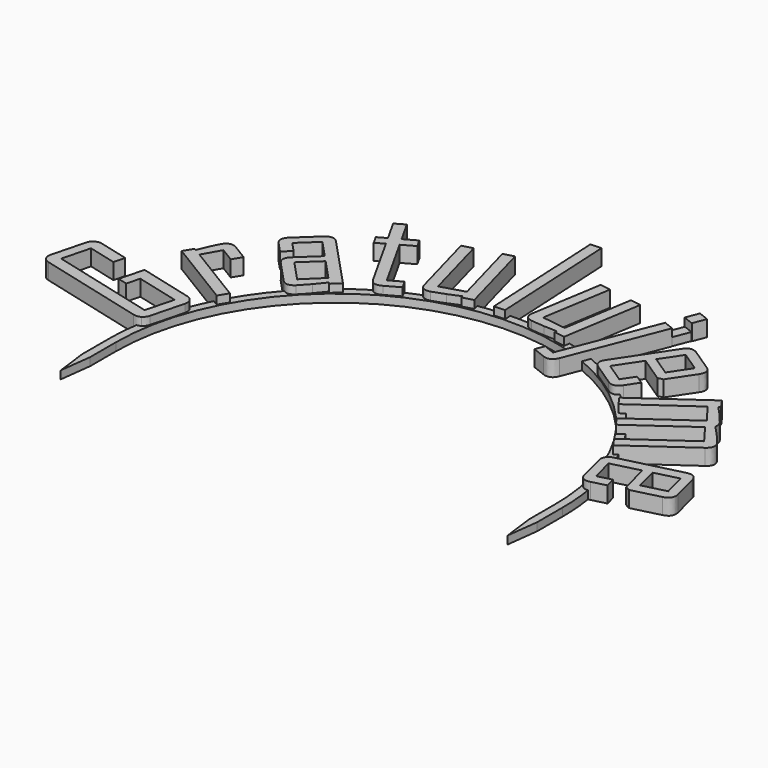
from build123d import *

# Parameters (mm, degrees)
PAD_DEPTH    = 1
PAD001_DEPTH = 2


with BuildPart() as part:
    # Sketch001 (on DatumPlane) → Pad (new body)
    with BuildSketch(Plane.XY):
        with BuildLine():
            ThreePointArc((27.5, 0), (0, 27.5), (-27.5, 0))
            Line((-27.5, 0), (-27.5, -4))
            Line((-27.5, -4), (-28, -8))
            Line((-28.5, -4), (-28, -8))
            Line((-28.5, 0), (-28.5, -4))
            ThreePointArc((-25.981618, 11.713477), (-27.863292, 5.990572), (-28.5, 0))
            ThreePointArc((-25.473579, 12.780719), (-25.733132, 12.249732), (-25.981618, 11.713477))
            ThreePointArc((-18.916244, 21.317264), (-22.601598, 17.361387), (-25.473579, 12.780719))
            ThreePointArc((-17.94, 22.145121), (-18.43277, 21.736674), (-18.916244, 21.317264))
            ThreePointArc((-8.600872, 27.171216), (-13.50629, 25.096416), (-17.94, 22.145121))
            ThreePointArc((-7.372184, 27.53), (-7.988543, 27.357507), (-8.600872, 27.171216))
            ThreePointArc((9.780287, 26.769311), (1.262696, 28.472014), (-7.372184, 27.53))
            Line((9.780287, 26.769311), (14.521831, 38.89524))
            Line((14.521831, 38.89524), (15.713934, 38.429097))
            Line((10.97239, 26.303168), (15.713934, 38.429097))
            ThreePointArc((28.5, 0), (23.716694, 15.804064), (10.97239, 26.303168))
            Line((28.5, 0), (28.5, -4))
            Line((28.5, -4), (28, -8))
            Line((27.5, -4), (28, -8))
            Line((27.5, 0), (27.5, -4))
        make_face()
    extrude(amount=PAD_DEPTH)

    # Sketch002 → Pad001 (join)
    with BuildSketch(Plane(origin=(-105.3, 177.4, 0), x_dir=(1, 0, 0), z_dir=(0, 0, 1))):
        with BuildLine():
            add(Edge.make_bspline(
                [(78.345166, -166.893757), (78.835423, -167.02073), (79.06526, -167.411213)],
                knots=[0, 0, 0, 1, 1, 1], degree=2))
            add(Edge.make_bspline(
                [(79.06526, -167.411213), (79.295097, -167.801697), (79.168138, -168.291959)],
                knots=[0, 0, 0, 1, 1, 1], degree=2))
            add(Edge.make_bspline(
                [(79.168138, -168.291959), (78.103189, -172.4041)],
                knots=[0, 0, 4.247802, 4.247802], degree=1))
            add(Edge.make_bspline(
                [(78.103189, -172.4041), (77.976225, -172.894363), (77.585737, -173.124193)],
                knots=[0, 0, 0, 1, 1, 1], degree=2))
            add(Edge.make_bspline(
                [(77.585737, -173.124193), (77.195251, -173.354034), (76.704999, -173.227101)],
                knots=[0, 0, 0, 1, 1, 1], degree=2))
            add(Edge.make_bspline(
                [(76.704999, -173.227101), (63.267977, -169.747232)],
                knots=[0, 0, 13.880311, 13.880311], degree=1))
            add(Edge.make_bspline(
                [(63.267977, -169.747232), (62.777721, -169.620269), (62.547883, -169.229775)],
                knots=[0, 0, 0, 1, 1, 1], degree=2))
            add(Edge.make_bspline(
                [(62.547883, -169.229775), (62.318045, -168.839291), (62.445006, -168.34904)],
                knots=[0, 0, 0, 1, 1, 1], degree=2))
            add(Edge.make_bspline(
                [(62.445006, -168.34904), (63.509955, -164.236888)],
                knots=[0, 0, 4.247812, 4.247812], degree=1))
            add(Edge.make_bspline(
                [(63.509955, -164.236888), (63.63692, -163.746636), (64.027406, -163.516795)],
                knots=[0, 0, 0, 1, 1, 1], degree=2))
            add(Edge.make_bspline(
                [(64.027406, -163.516795), (64.417892, -163.286955), (64.908144, -163.413888)],
                knots=[0, 0, 0, 1, 1, 1], degree=2))
            add(Edge.make_bspline(
                [(64.908144, -163.413888), (68.550048, -164.357058)],
                knots=[0, 0, 3.762052, 3.762052], degree=1))
            add(Edge.make_bspline(
                [(68.550048, -164.357058), (68.187292, -165.757793)],
                knots=[0, 0, 1.446946, 1.446946], degree=1))
            add(Edge.make_bspline(
                [(68.187292, -165.757793), (64.665451, -164.845721)],
                knots=[0, 0, 3.638027, 3.638027], degree=1))
            add(Edge.make_bspline(
                [(64.665451, -164.845721), (63.748196, -168.387567)],
                knots=[0, 0, 3.658692, 3.658692], degree=1))
            add(Edge.make_bspline(
                [(63.748196, -168.387567), (76.945092, -171.80525)],
                knots=[0, 0, 13.632264, 13.632264], degree=1))
            add(Edge.make_bspline(
                [(76.945092, -171.80525), (77.862348, -168.263404)],
                knots=[0, 0, 3.658692, 3.658692], degree=1))
            add(Edge.make_bspline(
                [(77.862348, -168.263404), (72.449519, -166.861606)],
                knots=[0, 0, 5.591401, 5.591401], degree=1))
            add(Edge.make_bspline(
                [(72.449519, -166.861606), (72.016802, -168.532477)],
                knots=[0, 0, 1.725993, 1.725993], degree=1))
            add(Edge.make_bspline(
                [(72.016802, -168.532477), (70.816175, -168.22154)],
                knots=[0, 0, 1.240237, 1.240237], degree=1))
            add(Edge.make_bspline(
                [(70.816175, -168.22154), (71.611648, -165.149944)],
                knots=[0, 0, 3.17293, 3.17293], degree=1))
            add(Edge.make_bspline(
                [(71.611648, -165.149944), (78.345166, -166.893757)],
                knots=[0, 0, 6.955656, 6.955656], degree=1))
        make_face()
        with BuildLine():
            add(Edge.make_bspline(
                [(77.502716, -156.989533), (76.797599, -158.145348)],
                knots=[0, 0, 1.35392, 1.35392], degree=1))
            add(Edge.make_bspline(
                [(76.797599, -158.145348), (75.024164, -157.063457)],
                knots=[0, 0, 2.077393, 2.077393], degree=1))
            add(Edge.make_bspline(
                [(75.024164, -157.063457), (73.776017, -159.268163)],
                knots=[0, 0, 2.533495, 2.533495], degree=1))
            add(Edge.make_bspline(
                [(73.776017, -159.268163), (81.240327, -163.821815)],
                knots=[0, 0, 8.743665, 8.743665], degree=1))
            add(Edge.make_bspline(
                [(81.240327, -163.821815), (80.524446, -164.995286)],
                knots=[0, 0, 1.374598, 1.374598], degree=1))
            add(Edge.make_bspline(
                [(80.524446, -164.995286), (71.939606, -159.758042)],
                knots=[0, 0, 10.056251, 10.056251], degree=1))
            add(Edge.make_bspline(
                [(71.939606, -159.758042), (72.65549, -158.584581)],
                knots=[0, 0, 1.374591, 1.374591], degree=1))
            add(Edge.make_bspline(
                [(72.65549, -158.584581), (72.893711, -158.729906)],
                knots=[0, 0, 0.27905, 0.27905], degree=1))
            add(Edge.make_bspline(
                [(72.893711, -158.729906), (73.160731, -158.093759), (73.424309, -157.443406)],
                knots=[0, 0, 0, 1, 1, 1], degree=2))
            add(Edge.make_bspline(
                [(73.424309, -157.443406), (73.749039, -156.672973), (74.034315, -156.205345)],
                knots=[0, 0, 0, 1, 1, 1], degree=2))
            add(Edge.make_bspline(
                [(74.034315, -156.205345), (74.626398, -155.234816), (75.588111, -155.821511)],
                knots=[0, 0, 0, 1, 1, 1], degree=2))
            add(Edge.make_bspline(
                [(75.588111, -155.821511), (77.502716, -156.989533)],
                knots=[0, 0, 2.242763, 2.242763], degree=1))
        make_face()
        with BuildLine():
            add(Edge.make_bspline(
                [(88.544844, -155.250217), (87.555737, -156.174762)],
                knots=[0, 0, 1.353926, 1.353926], degree=1))
            add(Edge.make_bspline(
                [(87.555737, -156.174762), (87.365183, -155.970902)],
                knots=[0, 0, 0.279051, 0.279051], degree=1))
            add(Edge.make_bspline(
                [(87.365183, -155.970902), (86.846331, -156.611506), (86.320422, -157.244554)],
                knots=[0, 0, 0, 1, 1, 1], degree=2))
            add(Edge.make_bspline(
                [(86.320422, -157.244554), (85.665169, -158.0268), (85.219693, -158.443198)],
                knots=[0, 0, 0, 1, 1, 1], degree=2))
            add(Edge.make_bspline(
                [(85.219693, -158.443198), (84.396695, -159.212473), (83.634477, -158.397025)],
                knots=[0, 0, 0, 1, 1, 1], degree=2))
            add(Edge.make_bspline(
                [(83.634477, -158.397025), (81.12904, -155.716618)],
                knots=[0, 0, 3.669032, 3.669032], degree=1))
            add(Edge.make_bspline(
                [(81.12904, -155.716618), (80.338593, -154.870977), (81.191791, -154.073464)],
                knots=[0, 0, 0, 1, 1, 1], degree=2))
            add(Edge.make_bspline(
                [(81.191791, -154.073464), (83.55508, -151.864442)],
                knots=[0, 0, 3.234951, 3.234951], degree=1))
            add(Edge.make_bspline(
                [(83.55508, -151.864442), (81.487212, -149.652172)],
                knots=[0, 0, 3.028236, 3.028236], degree=1))
            add(Edge.make_bspline(
                [(81.487212, -149.652172), (79.327785, -151.67063)],
                knots=[0, 0, 2.955893, 2.955893], degree=1))
            add(Edge.make_bspline(
                [(79.327785, -151.67063), (80.499343, -152.924011)],
                knots=[0, 0, 1.715666, 1.715666], degree=1))
            add(Edge.make_bspline(
                [(80.499343, -152.924011), (79.525336, -153.834437)],
                knots=[0, 0, 1.333253, 1.333253], degree=1))
            add(Edge.make_bspline(
                [(79.525336, -153.834437), (78.367894, -152.596158)],
                knots=[0, 0, 1.694995, 1.694995], degree=1))
            add(Edge.make_bspline(
                [(78.367894, -152.596158), (77.570388, -151.742961), (78.416038, -150.952512)],
                knots=[0, 0, 0, 1, 1, 1], degree=2))
            add(Edge.make_bspline(
                [(78.416038, -150.952512), (80.832179, -148.694089)],
                knots=[0, 0, 3.307297, 3.307297], degree=1))
            add(Edge.make_bspline(
                [(80.832179, -148.694089), (81.677829, -147.90364), (82.475334, -148.756838)],
                knots=[0, 0, 0, 1, 1, 1], degree=2))
            add(Edge.make_bspline(
                [(82.475334, -148.756838), (88.544844, -155.250217)],
                knots=[0, 0, 8.888359, 8.888359], degree=1))
        make_face()
        with BuildLine():
            add(Edge.make_bspline(
                [(86.716872, -155.247048), (84.289068, -152.649696)],
                knots=[0, 0, 3.555344, 3.555344], degree=1))
            add(Edge.make_bspline(
                [(84.289068, -152.649696), (82.046587, -154.745795)],
                knots=[0, 0, 3.069585, 3.069585], degree=1))
            add(Edge.make_bspline(
                [(82.046587, -154.745795), (84.516735, -157.388442)],
                knots=[0, 0, 3.61735, 3.61735], degree=1))
            add(Edge.make_bspline(
                [(84.516735, -157.388442), (86.716872, -155.247048)],
                knots=[0, 0, 3.070207, 3.070207], degree=1))
        make_face(mode=Mode.SUBTRACT)
        with BuildLine():
            add(Edge.make_bspline(
                [(93.622862, -152.266731), (91.918801, -153.221635)],
                knots=[0, 0, 1.953374, 1.953374], degree=1))
            add(Edge.make_bspline(
                [(91.918801, -153.221635), (90.908985, -153.7875), (90.338065, -152.768669)],
                knots=[0, 0, 0, 1, 1, 1], degree=2))
            add(Edge.make_bspline(
                [(90.338065, -152.768669), (86.584141, -146.069641)],
                knots=[0, 0, 7.679123, 7.679123], degree=1))
            add(Edge.make_bspline(
                [(86.584141, -146.069641), (85.529244, -146.660767)],
                knots=[0, 0, 1.209229, 1.209229], degree=1))
            add(Edge.make_bspline(
                [(85.529244, -146.660767), (84.938115, -145.605875)],
                knots=[0, 0, 1.209227, 1.209227], degree=1))
            add(Edge.make_bspline(
                [(84.938115, -145.605875), (85.99301, -145.01474)],
                knots=[0, 0, 1.209233, 1.209233], degree=1))
            add(Edge.make_bspline(
                [(85.99301, -145.01474), (84.462136, -142.282834)],
                knots=[0, 0, 3.131595, 3.131595], degree=1))
            add(Edge.make_bspline(
                [(84.462136, -142.282834), (85.643258, -141.62097)],
                knots=[0, 0, 1.353924, 1.353924], degree=1))
            add(Edge.make_bspline(
                [(85.643258, -141.62097), (87.174132, -144.352876)],
                knots=[0, 0, 3.131595, 3.131595], degree=1))
            add(Edge.make_bspline(
                [(87.174132, -144.352876), (88.706886, -143.493971)],
                knots=[0, 0, 1.757002, 1.757002], degree=1))
            add(Edge.make_bspline(
                [(88.706886, -143.493971), (89.298015, -144.548863)],
                knots=[0, 0, 1.209227, 1.209227], degree=1))
            add(Edge.make_bspline(
                [(89.298015, -144.548863), (87.765263, -145.407778)],
                knots=[0, 0, 1.757005, 1.757005], degree=1))
            add(Edge.make_bspline(
                [(87.765263, -145.407778), (91.498979, -152.070745)],
                knots=[0, 0, 7.637785, 7.637785], degree=1))
            add(Edge.make_bspline(
                [(91.498979, -152.070745), (93.031732, -151.211839)],
                knots=[0, 0, 1.757001, 1.757001], degree=1))
            add(Edge.make_bspline(
                [(93.031732, -151.211839), (93.622862, -152.266731)],
                knots=[0, 0, 1.209227, 1.209227], degree=1))
        make_face()
        with BuildLine():
            add(Edge.make_bspline(
                [(100.781992, -149.981279), (99.475992, -150.338337)],
                knots=[0, 0, 1.35393, 1.35393], degree=1))
            add(Edge.make_bspline(
                [(99.475992, -150.338337), (99.402361, -150.069176)],
                knots=[0, 0, 0.279051, 0.279051], degree=1))
            add(Edge.make_bspline(
                [(99.402361, -150.069176), (98.634792, -150.396887), (97.874464, -150.711904)],
                knots=[0, 0, 0, 1, 1, 1], degree=2))
            add(Edge.make_bspline(
                [(97.874464, -150.711904), (96.950106, -151.093205), (96.322033, -151.264924)],
                knots=[0, 0, 0, 1, 1, 1], degree=2))
            add(Edge.make_bspline(
                [(96.322033, -151.264924), (95.245337, -151.559295), (94.950965, -150.482599)],
                knots=[0, 0, 0, 1, 1, 1], degree=2))
            add(Edge.make_bspline(
                [(94.950965, -150.482599), (92.576919, -141.799232)],
                knots=[0, 0, 9.002054, 9.002054], degree=1))
            add(Edge.make_bspline(
                [(92.576919, -141.799232), (93.882912, -141.442175)],
                knots=[0, 0, 1.353924, 1.353924], degree=1))
            add(Edge.make_bspline(
                [(93.882912, -141.442175), (96.210623, -149.956058)],
                knots=[0, 0, 8.826349, 8.826349], degree=1))
            add(Edge.make_bspline(
                [(96.210623, -149.956058), (99.129792, -149.072226)],
                knots=[0, 0, 3.050033, 3.050033], degree=1))
            add(Edge.make_bspline(
                [(99.129792, -149.072226), (96.823885, -140.638099)],
                knots=[0, 0, 8.743667, 8.743667], degree=1))
            add(Edge.make_bspline(
                [(96.823885, -140.638099), (98.129884, -140.281041)],
                knots=[0, 0, 1.35393, 1.35393], degree=1))
            add(Edge.make_bspline(
                [(98.129884, -140.281041), (100.781992, -149.981279)],
                knots=[0, 0, 10.056256, 10.056256], degree=1))
        make_face()
        with BuildLine():
            add(Edge.make_bspline(
                [(104.476821, -149.775824), (103.124701, -149.84572)],
                knots=[0, 0, 1.353926, 1.353926], degree=1))
            add(Edge.make_bspline(
                [(103.124701, -149.84572), (102.289646, -133.692539)],
                knots=[0, 0, 16.17475, 16.17475], degree=1))
            add(Edge.make_bspline(
                [(102.289646, -133.692539), (103.641766, -133.622644)],
                knots=[0, 0, 1.353926, 1.353926], degree=1))
            add(Edge.make_bspline(
                [(103.641766, -133.622644), (104.476821, -149.775824)],
                knots=[0, 0, 16.17475, 16.17475], degree=1))
        make_face()
        with BuildLine():
            add(Edge.make_bspline(
                [(112.514229, -150.592489), (111.177732, -150.37595)],
                knots=[0, 0, 1.353925, 1.353925], degree=1))
            add(Edge.make_bspline(
                [(111.177732, -150.37595), (111.222333, -150.100491)],
                knots=[0, 0, 0.279046, 0.279046], degree=1))
            add(Edge.make_bspline(
                [(111.222333, -150.100491), (110.387974, -150.080477), (109.565467, -150.051904)],
                knots=[0, 0, 0, 1, 1, 1], degree=2))
            add(Edge.make_bspline(
                [(109.565467, -150.051904), (108.566211, -150.015644), (107.923475, -149.911507)],
                knots=[0, 0, 0, 1, 1, 1], degree=2))
            add(Edge.make_bspline(
                [(107.923475, -149.911507), (106.821623, -149.732981), (107.00015, -148.631139)],
                knots=[0, 0, 0, 1, 1, 1], degree=2))
            add(Edge.make_bspline(
                [(107.00015, -148.631139), (108.43993, -139.744967)],
                knots=[0, 0, 9.002057, 9.002057], degree=1))
            add(Edge.make_bspline(
                [(108.43993, -139.744967), (109.776419, -139.961518)],
                knots=[0, 0, 1.353918, 1.353918], degree=1))
            add(Edge.make_bspline(
                [(109.776419, -139.961518), (108.364748, -148.674244)],
                knots=[0, 0, 8.826347, 8.826347], degree=1))
            add(Edge.make_bspline(
                [(108.364748, -148.674244), (111.387643, -149.080262)],
                knots=[0, 0, 3.05004, 3.05004], degree=1))
            add(Edge.make_bspline(
                [(111.387643, -149.080262), (112.786086, -140.449151)],
                knots=[0, 0, 8.743668, 8.743668], degree=1))
            add(Edge.make_bspline(
                [(112.786086, -140.449151), (114.122585, -140.665701)],
                knots=[0, 0, 1.353928, 1.353928], degree=1))
            add(Edge.make_bspline(
                [(114.122585, -140.665701), (112.514229, -150.592489)],
                knots=[0, 0, 10.056239, 10.056239], degree=1))
        make_face()
        with BuildLine():
            add(Edge.make_bspline(
                [(120.470654, -140.531133), (119.172241, -140.020343)],
                knots=[0, 0, 1.395272, 1.395272], degree=1))
            add(Edge.make_bspline(
                [(119.172241, -140.020343), (119.807886, -138.404546)],
                knots=[0, 0, 1.73633, 1.73633], degree=1))
            add(Edge.make_bspline(
                [(119.807886, -138.404546), (121.106297, -138.915327)],
                knots=[0, 0, 1.395267, 1.395267], degree=1))
            add(Edge.make_bspline(
                [(121.106297, -138.915327), (120.470654, -140.531133)],
                knots=[0, 0, 1.736339, 1.736339], degree=1))
        make_face()
        with BuildLine():
            add(Edge.make_bspline(
                [(114.995456, -154.392487), (114.567906, -155.479297), (113.481097, -155.051758)],
                knots=[0, 0, 0, 1, 1, 1], degree=2))
            add(Edge.make_bspline(
                [(113.481097, -155.051758), (111.884529, -154.423675)],
                knots=[0, 0, 1.715669, 1.715669], degree=1))
            add(Edge.make_bspline(
                [(111.884529, -154.423675), (112.327219, -153.298387)],
                knots=[0, 0, 1.209235, 1.209235], degree=1))
            add(Edge.make_bspline(
                [(112.327219, -153.298387), (113.750652, -153.858361)],
                knots=[0, 0, 1.529618, 1.529618], degree=1))
            add(Edge.make_bspline(
                [(113.750652, -153.858361), (118.385564, -142.076505)],
                knots=[0, 0, 12.660748, 12.660748], degree=1))
            add(Edge.make_bspline(
                [(118.385564, -142.076505), (119.645511, -142.572163)],
                knots=[0, 0, 1.353936, 1.353936], degree=1))
            add(Edge.make_bspline(
                [(119.645511, -142.572163), (114.995456, -154.392487)],
                knots=[0, 0, 12.702089, 12.702089], degree=1))
        make_face()
        with BuildLine():
            add(Edge.make_bspline(
                [(123.473105, -154.961932), (122.825208, -155.93363), (121.862113, -155.291474)],
                knots=[0, 0, 0, 1, 1, 1], degree=2))
            add(Edge.make_bspline(
                [(121.862113, -155.291474), (119.110391, -153.456733)],
                knots=[0, 0, 3.307302, 3.307302], degree=1))
            add(Edge.make_bspline(
                [(119.110391, -153.456733), (118.147295, -152.814567), (118.795212, -151.842865)],
                knots=[0, 0, 0, 1, 1, 1], degree=2))
            add(Edge.make_bspline(
                [(118.795212, -151.842865), (123.078186, -145.419333)],
                knots=[0, 0, 7.720469, 7.720469], degree=1))
            add(Edge.make_bspline(
                [(123.078186, -145.419333), (123.726083, -144.447634), (124.689179, -145.089801)],
                knots=[0, 0, 0, 1, 1, 1], degree=2))
            add(Edge.make_bspline(
                [(124.689179, -145.089801), (127.440891, -146.924542)],
                knots=[0, 0, 3.307295, 3.307295], degree=1))
            add(Edge.make_bspline(
                [(127.440891, -146.924542), (128.403995, -147.566697), (127.756068, -148.5384)],
                knots=[0, 0, 0, 1, 1, 1], degree=2))
            add(Edge.make_bspline(
                [(127.756068, -148.5384), (125.749316, -151.548091)],
                knots=[0, 0, 3.61736, 3.61736], degree=1))
            add(Edge.make_bspline(
                [(125.749316, -151.548091), (125.092876, -151.694197)],
                knots=[0, 0, 0.672504, 0.672504], degree=1))
            add(Edge.make_bspline(
                [(125.092876, -151.694197), (121.91121, -149.572774)],
                knots=[0, 0, 3.82406, 3.82406], degree=1))
            add(Edge.make_bspline(
                [(121.91121, -149.572774), (119.892986, -152.599661)],
                knots=[0, 0, 3.638032, 3.638032], degree=1))
            add(Edge.make_bspline(
                [(119.892986, -152.599661), (122.352338, -154.239466)],
                knots=[0, 0, 2.955905, 2.955905], degree=1))
            add(Edge.make_bspline(
                [(122.352338, -154.239466), (123.372912, -152.708827)],
                knots=[0, 0, 1.839682, 1.839682], degree=1))
            add(Edge.make_bspline(
                [(123.372912, -152.708827), (124.482192, -153.448451)],
                knots=[0, 0, 1.333246, 1.333246], degree=1))
            add(Edge.make_bspline(
                [(124.482192, -153.448451), (123.473105, -154.961932)],
                knots=[0, 0, 1.819033, 1.819033], degree=1))
        make_face()
        with BuildLine():
            add(Edge.make_bspline(
                [(124.978327, -150.301113), (126.658261, -147.781579)],
                knots=[0, 0, 3.028239, 3.028239], degree=1))
            add(Edge.make_bspline(
                [(126.658261, -147.781579), (124.198919, -146.141772)],
                knots=[0, 0, 2.955897, 2.955897], degree=1))
            add(Edge.make_bspline(
                [(124.198919, -146.141772), (122.518985, -148.661306)],
                knots=[0, 0, 3.028239, 3.028239], degree=1))
            add(Edge.make_bspline(
                [(122.518985, -148.661306), (124.978327, -150.301113)],
                knots=[0, 0, 2.955897, 2.955897], degree=1))
        make_face(mode=Mode.SUBTRACT)
        with BuildLine():
            add(Edge.make_bspline(
                [(130.63173, -165.530719), (129.837656, -164.408685)],
                knots=[0, 0, 1.374596, 1.374596], degree=1))
            add(Edge.make_bspline(
                [(129.837656, -164.408685), (137.042315, -159.309921)],
                knots=[0, 0, 8.826353, 8.826353], degree=1))
            add(Edge.make_bspline(
                [(137.042315, -159.309921), (135.243387, -156.911135)],
                knots=[0, 0, 2.998386, 2.998386], degree=1))
            add(Edge.make_bspline(
                [(135.243387, -156.911135), (128.106225, -161.962134)],
                knots=[0, 0, 8.743665, 8.743665], degree=1))
            add(Edge.make_bspline(
                [(128.106225, -161.962134), (127.318125, -160.848539)],
                knots=[0, 0, 1.364255, 1.364255], degree=1))
            add(Edge.make_bspline(
                [(127.318125, -160.848539), (134.522785, -155.749776)],
                knots=[0, 0, 8.826353, 8.826353], degree=1))
            add(Edge.make_bspline(
                [(134.522785, -155.749776), (132.723857, -153.350989)],
                knots=[0, 0, 2.998386, 2.998386], degree=1))
            add(Edge.make_bspline(
                [(132.723857, -153.350989), (125.586694, -158.401988)],
                knots=[0, 0, 8.743665, 8.743665], degree=1))
            add(Edge.make_bspline(
                [(125.586694, -158.401988), (124.79263, -157.279952)],
                knots=[0, 0, 1.374592, 1.374592], degree=1))
            add(Edge.make_bspline(
                [(124.79263, -157.279952), (133.001213, -151.470704)],
                knots=[0, 0, 10.056251, 10.056251], degree=1))
            add(Edge.make_bspline(
                [(133.001213, -151.470704), (133.795277, -152.59274)],
                knots=[0, 0, 1.374592, 1.374592], degree=1))
            add(Edge.make_bspline(
                [(133.795277, -152.59274), (133.567494, -152.753945)],
                knots=[0, 0, 0.279056, 0.279056], degree=1))
            add(Edge.make_bspline(
                [(133.567494, -152.753945), (134.117554, -153.35228), (134.676054, -153.94464)],
                knots=[0, 0, 0, 1, 1, 1], degree=2))
            add(Edge.make_bspline(
                [(134.676054, -153.94464), (135.344478, -154.674452), (135.714651, -155.197505)],
                knots=[0, 0, 0, 1, 1, 1], degree=2))
            add(Edge.make_bspline(
                [(135.714651, -155.197505), (136.078849, -155.712118), (135.93981, -156.177685)],
                knots=[0, 0, 0, 1, 1, 1], degree=2))
            add(Edge.make_bspline(
                [(135.93981, -156.177685), (136.534126, -156.820661), (137.130909, -157.449242)],
                knots=[0, 0, 0, 1, 1, 1], degree=2))
            add(Edge.make_bspline(
                [(137.130909, -157.449242), (137.899803, -158.285216), (138.234151, -158.757655)],
                knots=[0, 0, 0, 1, 1, 1], degree=2))
            add(Edge.make_bspline(
                [(138.234151, -158.757655), (138.890897, -159.68565), (137.971333, -160.336433)],
                knots=[0, 0, 0, 1, 1, 1], degree=2))
            add(Edge.make_bspline(
                [(137.971333, -160.336433), (130.63173, -165.530719)],
                knots=[0, 0, 8.991685, 8.991685], degree=1))
        make_face()
        with BuildLine():
            add(Edge.make_bspline(
                [(133.740026, -172.961803), (132.607762, -173.248035), (132.324065, -172.12578)],
                knots=[0, 0, 0, 1, 1, 1], degree=2))
            add(Edge.make_bspline(
                [(132.324065, -172.12578), (131.513504, -168.91935)],
                knots=[0, 0, 3.307295, 3.307295], degree=1))
            add(Edge.make_bspline(
                [(131.513504, -168.91935), (131.229807, -167.797095), (132.362083, -167.510872)],
                knots=[0, 0, 0, 1, 1, 1], degree=2))
            add(Edge.make_bspline(
                [(132.362083, -167.510872), (139.8471, -165.618726)],
                knots=[0, 0, 7.720473, 7.720473], degree=1))
            add(Edge.make_bspline(
                [(139.8471, -165.618726), (140.979374, -165.332493), (141.263061, -166.454749)],
                knots=[0, 0, 0, 1, 1, 1], degree=2))
            add(Edge.make_bspline(
                [(141.263061, -166.454749), (142.073622, -169.661179)],
                knots=[0, 0, 3.307295, 3.307295], degree=1))
            add(Edge.make_bspline(
                [(142.073622, -169.661179), (142.357319, -170.783434), (141.225043, -171.069657)],
                knots=[0, 0, 0, 1, 1, 1], degree=2))
            add(Edge.make_bspline(
                [(141.225043, -171.069657), (137.718013, -171.956208)],
                knots=[0, 0, 3.617352, 3.617352], degree=1))
            add(Edge.make_bspline(
                [(137.718013, -171.956208), (137.133078, -171.624356)],
                knots=[0, 0, 0.672514, 0.672514], degree=1))
            add(Edge.make_bspline(
                [(137.133078, -171.624356), (136.195872, -167.916911)],
                knots=[0, 0, 3.824069, 3.824069], degree=1))
            add(Edge.make_bspline(
                [(136.195872, -167.916911), (132.668802, -168.808524)],
                knots=[0, 0, 3.638021, 3.638021], degree=1))
            add(Edge.make_bspline(
                [(132.668802, -168.808524), (133.393237, -171.674275)],
                knots=[0, 0, 2.955898, 2.955898], degree=1))
            add(Edge.make_bspline(
                [(133.393237, -171.674275), (135.176811, -171.2234)],
                knots=[0, 0, 1.839681, 1.839681], degree=1))
            add(Edge.make_bspline(
                [(135.176811, -171.2234), (135.503572, -172.516)],
                knots=[0, 0, 1.333261, 1.333261], degree=1))
            add(Edge.make_bspline(
                [(135.503572, -172.516), (133.740026, -172.961803)],
                knots=[0, 0, 1.81902, 1.81902], degree=1))
        make_face()
        with BuildLine():
            add(Edge.make_bspline(
                [(137.982445, -170.514165), (140.918334, -169.772003)],
                knots=[0, 0, 3.028242, 3.028242], degree=1))
            add(Edge.make_bspline(
                [(140.918334, -169.772003), (140.193899, -166.906252)],
                knots=[0, 0, 2.955898, 2.955898], degree=1))
            add(Edge.make_bspline(
                [(140.193899, -166.906252), (137.258009, -167.648414)],
                knots=[0, 0, 3.028242, 3.028242], degree=1))
            add(Edge.make_bspline(
                [(137.258009, -167.648414), (137.982445, -170.514165)],
                knots=[0, 0, 2.955898, 2.955898], degree=1))
        make_face(mode=Mode.SUBTRACT)
    extrude(amount=PAD001_DEPTH)


solid = part.part
